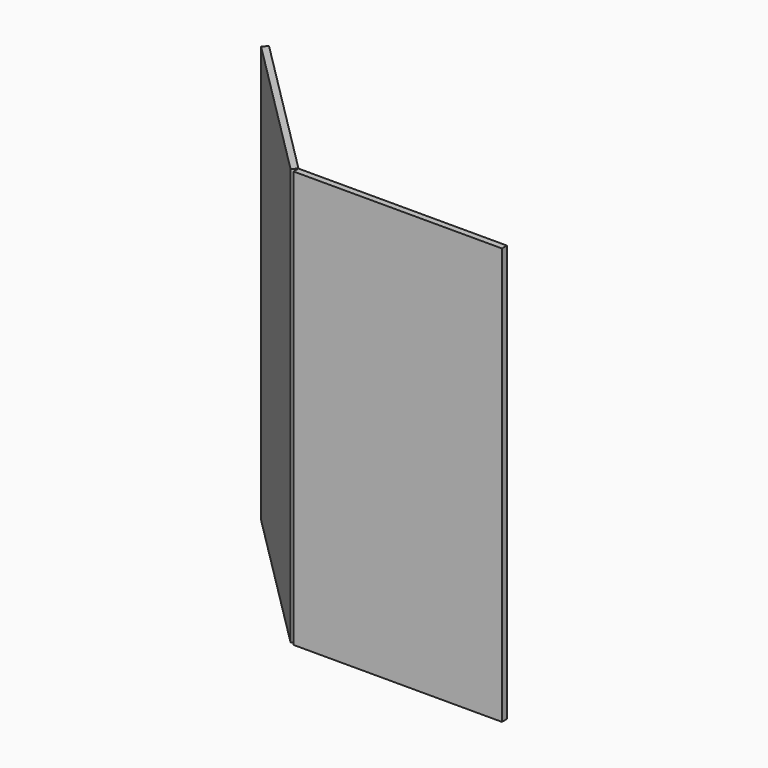
from build123d import *

# Parameters (mm, degrees)
F0_W     = 1000
F0_H     = 30
F1_DEPTH = 2000


with BuildPart() as f1:
    # F0 (on Top) → F1 (new body)
    with BuildSketch(Plane.XY):
        with Locations((343.096574, -243.842466)):
            Rectangle(F0_W, F0_H)
        Polygon((-178.11663, -250.05567), (-156.903426, -228.842466), (-864.010207, 478.264315), (-885.223411, 457.051111), align=None)
    extrude(amount=F1_DEPTH)


solid = f1.part
